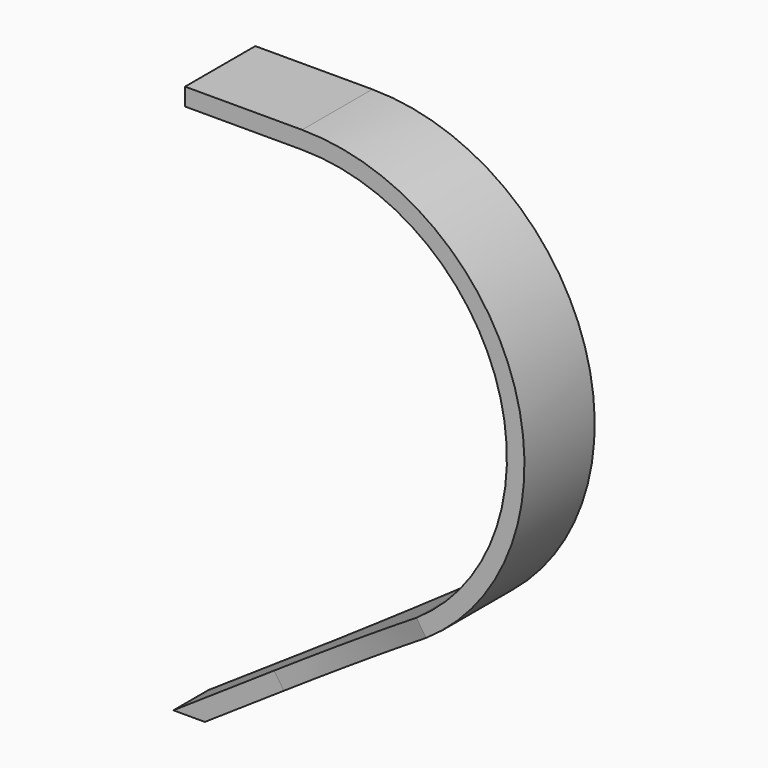
from build123d import *

# Parameters (mm, degrees)
F1_DEPTH = 15
F3_DEPTH = 10


with BuildPart() as f1:
    # F0 (on Front) → F1 (new body, symmetric)
    with BuildSketch(Plane.XZ):
        with BuildLine():
            ThreePointArc((0, 187.9509669885), (66.9578837306, 138.3627725508), (39.0494658165, 59.8550185975))
            Line((39.0494658165, 59.8550185975), (-50, 0))
            Line((-50, 0), (-39.2444111278, 0))
            Line((-39.2444111278, 0), (42.3965628865, 54.8753658783))
            ThreePointArc((42.3965628865, 54.8753658783), (72.6971309075, 140.1123558847), (0, 193.9509669885))
            Line((0, 193.9509669885), (-40, 193.9509669885))
            Line((-40, 193.9509669885), (-40, 187.9509669885))
            Line((-40, 187.9509669885), (0, 187.9509669885))
        make_face()
    extrude(amount=F1_DEPTH, both=True)

    # F2 (on face) → F3 (cut)
    with BuildSketch(Plane(origin=(-15.5598038832, 0, 23.149140314), x_dir=(0.8299421199, 0, 0.5578495117), z_dir=(-0.5578495117, 0, 0.8299421199))):
        with BuildLine():
            ThreePointArc((65.7988893348, -15), (33.1142363133, -9.3655931013), (0, -7.5))
            Line((0, -7.5), (-111.7355904906, -7.5))
            Line((-111.7355904906, -7.5), (-111.7421686649, -33.4417559206))
            Line((-111.7421686649, -33.4417559206), (65.7988893348, -33.4417559206))
            Line((65.7988893348, -33.4417559206), (65.7988893348, -15))
        make_face()
        with BuildLine():
            Line((-111.7355904906, 7.5), (0, 7.5))
            ThreePointArc((0, 7.5), (33.1142363133, 9.3655931013), (65.7988893348, 15))
            Line((65.7988893348, 15), (65.7988893348, 33.4417559206))
            Line((65.7988893348, 33.4417559206), (-111.7421686649, 33.4417559206))
            Line((-111.7421686649, 33.4417559206), (-111.7355904906, 7.5))
        make_face()
    extrude(amount=-F3_DEPTH, mode=Mode.SUBTRACT)


solid = f1.part
